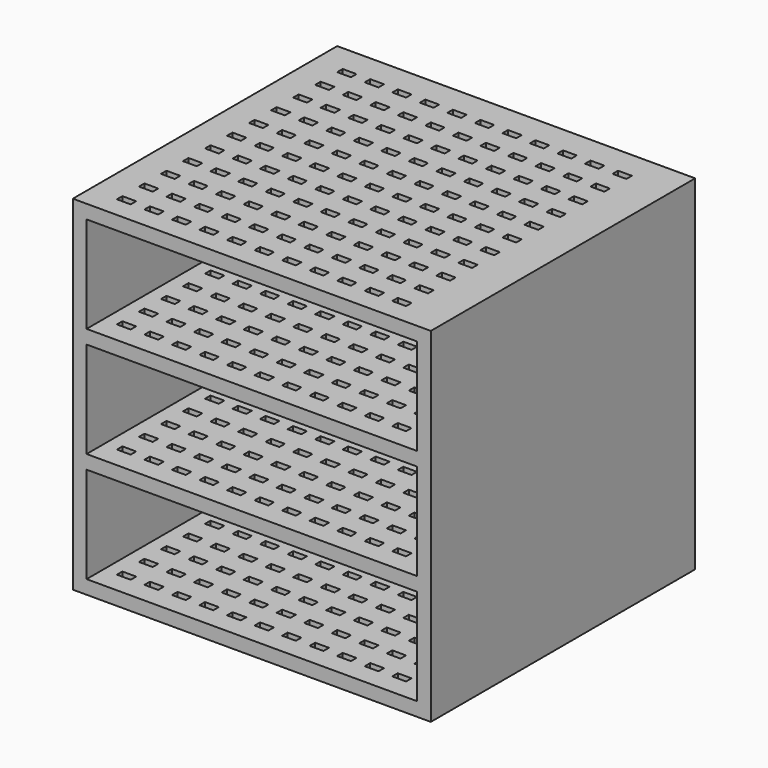
from build123d import *

# Parameters (mm, degrees)
F0_W     = 330.2
F0_H     = 317.5
F0_W_2   = 304.8
F0_H_2   = 88.9
F1_DEPTH = 304.8
F2_W     = 12.7
F2_H     = 6.35
F3_DEPTH = 317.5


with BuildPart() as f1:
    # F0 (on Front) → F1 (new body)
    with BuildSketch(Plane.XZ):
        with Locations((152.4, 146.05)):
            Rectangle(F0_W, F0_H)
        with Locations((152.4, 44.45)):
            Rectangle(F0_W_2, F0_H_2, mode=Mode.SUBTRACT)
        with Locations((152.4, 146.05)):
            Rectangle(F0_W_2, F0_H_2, mode=Mode.SUBTRACT)
        with Locations((152.4, 247.65)):
            Rectangle(F0_W_2, F0_H_2, mode=Mode.SUBTRACT)
    extrude(amount=-F1_DEPTH)

    # F2 (on face) → F3 (cut)
    with BuildSketch(Plane.XY.offset(304.8)):
        with Locations((19.05, 22.225)):
            Rectangle(F2_W, F2_H)
        with Locations((19.05, 47.625)):
            Rectangle(F2_W, F2_H)
        with Locations((19.05, 73.025)):
            Rectangle(F2_W, F2_H)
        with Locations((19.05, 98.425)):
            Rectangle(F2_W, F2_H)
        with Locations((19.05, 123.825)):
            Rectangle(F2_W, F2_H)
        with Locations((19.05, 149.225)):
            Rectangle(F2_W, F2_H)
        with Locations((19.05, 174.625)):
            Rectangle(F2_W, F2_H)
        with Locations((19.05, 200.025)):
            Rectangle(F2_W, F2_H)
        with Locations((19.05, 225.425)):
            Rectangle(F2_W, F2_H)
        with Locations((19.05, 250.825)):
            Rectangle(F2_W, F2_H)
        with Locations((19.05, 276.225)):
            Rectangle(F2_W, F2_H)
        with Locations((44.45, 22.225)):
            Rectangle(F2_W, F2_H)
        with Locations((44.45, 47.625)):
            Rectangle(F2_W, F2_H)
        with Locations((44.45, 73.025)):
            Rectangle(F2_W, F2_H)
        with Locations((44.45, 98.425)):
            Rectangle(F2_W, F2_H)
        with Locations((44.45, 123.825)):
            Rectangle(F2_W, F2_H)
        with Locations((44.45, 149.225)):
            Rectangle(F2_W, F2_H)
        with Locations((44.45, 174.625)):
            Rectangle(F2_W, F2_H)
        with Locations((44.45, 200.025)):
            Rectangle(F2_W, F2_H)
        with Locations((44.45, 225.425)):
            Rectangle(F2_W, F2_H)
        with Locations((44.45, 250.825)):
            Rectangle(F2_W, F2_H)
        with Locations((44.45, 276.225)):
            Rectangle(F2_W, F2_H)
        with Locations((69.85, 22.225)):
            Rectangle(F2_W, F2_H)
        with Locations((69.85, 47.625)):
            Rectangle(F2_W, F2_H)
        with Locations((69.85, 73.025)):
            Rectangle(F2_W, F2_H)
        with Locations((69.85, 98.425)):
            Rectangle(F2_W, F2_H)
        with Locations((69.85, 123.825)):
            Rectangle(F2_W, F2_H)
        with Locations((69.85, 149.225)):
            Rectangle(F2_W, F2_H)
        with Locations((69.85, 174.625)):
            Rectangle(F2_W, F2_H)
        with Locations((69.85, 200.025)):
            Rectangle(F2_W, F2_H)
        with Locations((69.85, 225.425)):
            Rectangle(F2_W, F2_H)
        with Locations((69.85, 250.825)):
            Rectangle(F2_W, F2_H)
        with Locations((69.85, 276.225)):
            Rectangle(F2_W, F2_H)
        with Locations((95.25, 22.225)):
            Rectangle(F2_W, F2_H)
        with Locations((95.25, 47.625)):
            Rectangle(F2_W, F2_H)
        with Locations((95.25, 73.025)):
            Rectangle(F2_W, F2_H)
        with Locations((95.25, 98.425)):
            Rectangle(F2_W, F2_H)
        with Locations((95.25, 123.825)):
            Rectangle(F2_W, F2_H)
        with Locations((95.25, 149.225)):
            Rectangle(F2_W, F2_H)
        with Locations((95.25, 174.625)):
            Rectangle(F2_W, F2_H)
        with Locations((95.25, 200.025)):
            Rectangle(F2_W, F2_H)
        with Locations((95.25, 225.425)):
            Rectangle(F2_W, F2_H)
        with Locations((95.25, 250.825)):
            Rectangle(F2_W, F2_H)
        with Locations((95.25, 276.225)):
            Rectangle(F2_W, F2_H)
        with Locations((120.65, 22.225)):
            Rectangle(F2_W, F2_H)
        with Locations((120.65, 47.625)):
            Rectangle(F2_W, F2_H)
        with Locations((120.65, 73.025)):
            Rectangle(F2_W, F2_H)
        with Locations((120.65, 98.425)):
            Rectangle(F2_W, F2_H)
        with Locations((120.65, 123.825)):
            Rectangle(F2_W, F2_H)
        with Locations((120.65, 149.225)):
            Rectangle(F2_W, F2_H)
        with Locations((120.65, 174.625)):
            Rectangle(F2_W, F2_H)
        with Locations((120.65, 200.025)):
            Rectangle(F2_W, F2_H)
        with Locations((120.65, 225.425)):
            Rectangle(F2_W, F2_H)
        with Locations((120.65, 250.825)):
            Rectangle(F2_W, F2_H)
        with Locations((120.65, 276.225)):
            Rectangle(F2_W, F2_H)
        with Locations((146.05, 22.225)):
            Rectangle(F2_W, F2_H)
        with Locations((146.05, 47.625)):
            Rectangle(F2_W, F2_H)
        with Locations((146.05, 73.025)):
            Rectangle(F2_W, F2_H)
        with Locations((146.05, 98.425)):
            Rectangle(F2_W, F2_H)
        with Locations((146.05, 123.825)):
            Rectangle(F2_W, F2_H)
        with Locations((146.05, 149.225)):
            Rectangle(F2_W, F2_H)
        with Locations((146.05, 174.625)):
            Rectangle(F2_W, F2_H)
        with Locations((146.05, 200.025)):
            Rectangle(F2_W, F2_H)
        with Locations((146.05, 225.425)):
            Rectangle(F2_W, F2_H)
        with Locations((146.05, 250.825)):
            Rectangle(F2_W, F2_H)
        with Locations((146.05, 276.225)):
            Rectangle(F2_W, F2_H)
        with Locations((171.45, 22.225)):
            Rectangle(F2_W, F2_H)
        with Locations((171.45, 47.625)):
            Rectangle(F2_W, F2_H)
        with Locations((171.45, 73.025)):
            Rectangle(F2_W, F2_H)
        with Locations((171.45, 98.425)):
            Rectangle(F2_W, F2_H)
        with Locations((171.45, 123.825)):
            Rectangle(F2_W, F2_H)
        with Locations((171.45, 149.225)):
            Rectangle(F2_W, F2_H)
        with Locations((171.45, 174.625)):
            Rectangle(F2_W, F2_H)
        with Locations((171.45, 200.025)):
            Rectangle(F2_W, F2_H)
        with Locations((171.45, 225.425)):
            Rectangle(F2_W, F2_H)
        with Locations((171.45, 250.825)):
            Rectangle(F2_W, F2_H)
        with Locations((171.45, 276.225)):
            Rectangle(F2_W, F2_H)
        with Locations((196.85, 22.225)):
            Rectangle(F2_W, F2_H)
        with Locations((196.85, 47.625)):
            Rectangle(F2_W, F2_H)
        with Locations((196.85, 73.025)):
            Rectangle(F2_W, F2_H)
        with Locations((196.85, 98.425)):
            Rectangle(F2_W, F2_H)
        with Locations((196.85, 123.825)):
            Rectangle(F2_W, F2_H)
        with Locations((196.85, 149.225)):
            Rectangle(F2_W, F2_H)
        with Locations((196.85, 174.625)):
            Rectangle(F2_W, F2_H)
        with Locations((196.85, 200.025)):
            Rectangle(F2_W, F2_H)
        with Locations((196.85, 225.425)):
            Rectangle(F2_W, F2_H)
        with Locations((196.85, 250.825)):
            Rectangle(F2_W, F2_H)
        with Locations((196.85, 276.225)):
            Rectangle(F2_W, F2_H)
        with Locations((222.25, 22.225)):
            Rectangle(F2_W, F2_H)
        with Locations((222.25, 47.625)):
            Rectangle(F2_W, F2_H)
        with Locations((222.25, 73.025)):
            Rectangle(F2_W, F2_H)
        with Locations((222.25, 98.425)):
            Rectangle(F2_W, F2_H)
        with Locations((222.25, 123.825)):
            Rectangle(F2_W, F2_H)
        with Locations((222.25, 149.225)):
            Rectangle(F2_W, F2_H)
        with Locations((222.25, 174.625)):
            Rectangle(F2_W, F2_H)
        with Locations((222.25, 200.025)):
            Rectangle(F2_W, F2_H)
        with Locations((222.25, 225.425)):
            Rectangle(F2_W, F2_H)
        with Locations((222.25, 250.825)):
            Rectangle(F2_W, F2_H)
        with Locations((222.25, 276.225)):
            Rectangle(F2_W, F2_H)
        with Locations((247.65, 22.225)):
            Rectangle(F2_W, F2_H)
        with Locations((247.65, 47.625)):
            Rectangle(F2_W, F2_H)
        with Locations((247.65, 73.025)):
            Rectangle(F2_W, F2_H)
        with Locations((247.65, 98.425)):
            Rectangle(F2_W, F2_H)
        with Locations((247.65, 123.825)):
            Rectangle(F2_W, F2_H)
        with Locations((247.65, 149.225)):
            Rectangle(F2_W, F2_H)
        with Locations((247.65, 174.625)):
            Rectangle(F2_W, F2_H)
        with Locations((247.65, 200.025)):
            Rectangle(F2_W, F2_H)
        with Locations((247.65, 225.425)):
            Rectangle(F2_W, F2_H)
        with Locations((247.65, 250.825)):
            Rectangle(F2_W, F2_H)
        with Locations((247.65, 276.225)):
            Rectangle(F2_W, F2_H)
        with Locations((273.05, 22.225)):
            Rectangle(F2_W, F2_H)
        with Locations((273.05, 47.625)):
            Rectangle(F2_W, F2_H)
        with Locations((273.05, 73.025)):
            Rectangle(F2_W, F2_H)
        with Locations((273.05, 98.425)):
            Rectangle(F2_W, F2_H)
        with Locations((273.05, 123.825)):
            Rectangle(F2_W, F2_H)
        with Locations((273.05, 149.225)):
            Rectangle(F2_W, F2_H)
        with Locations((273.05, 174.625)):
            Rectangle(F2_W, F2_H)
        with Locations((273.05, 200.025)):
            Rectangle(F2_W, F2_H)
        with Locations((273.05, 225.425)):
            Rectangle(F2_W, F2_H)
        with Locations((273.05, 250.825)):
            Rectangle(F2_W, F2_H)
        with Locations((273.05, 276.225)):
            Rectangle(F2_W, F2_H)
    extrude(amount=-F3_DEPTH, mode=Mode.SUBTRACT)


solid = f1.part
